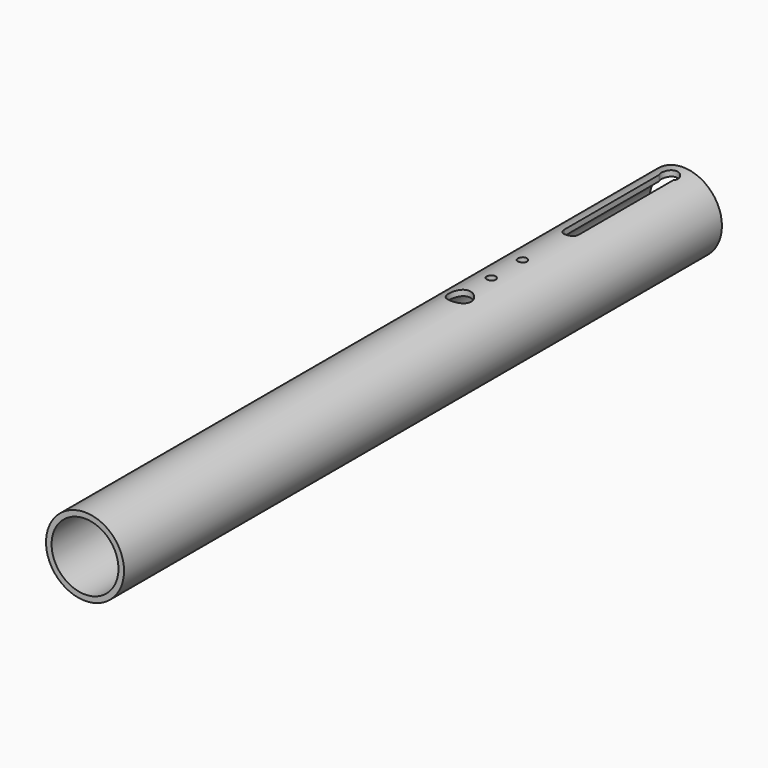
from build123d import *

# Parameters (mm, degrees)
F0_R     = 11.1125
F0_R_2   = 9.525
F1_DEPTH = 212.852
F2_R     = 2.38125
F2_R_2   = 3.175
F2_R_3   = 1.5875
F3_DEPTH = 25.4
F4_R     = 1.27
F4_R_2   = 3.175
F5_DEPTH = 25.4


with BuildPart() as f1:
    # F0 (on Front) → F1 (new body)
    with BuildSketch(Plane.XZ):
        Circle(F0_R)
        Circle(F0_R_2, mode=Mode.SUBTRACT)
    extrude(amount=F1_DEPTH)

    # F2 (on Top) → F3 (cut)
    with BuildSketch(Plane.XY):
        with Locations((0, -4.7625)):
            Circle(F2_R)
        with BuildLine():
            ThreePointArc((-2.38125, -50.8), (0, -53.18125), (2.38125, -50.8))
            Line((2.38125, -50.8), (2.38125, -31.75))
            ThreePointArc((2.38125, -31.75), (0, -29.36875), (-2.38125, -31.75))
            Line((-2.38125, -31.75), (-2.38125, -50.8))
        make_face()
        with Locations((0, -69.85)):
            Circle(F2_R_2)
        with Locations((0, -79.375)):
            Circle(F2_R_2)
        with Locations((0, -123.825)):
            Circle(F2_R_3)
    extrude(amount=-F3_DEPTH, mode=Mode.SUBTRACT)

    # F4 (on Top) → F5 (cut)
    with BuildSketch(Plane.XY):
        with BuildLine():
            ThreePointArc((2.032, -6.004002), (2.292275, -5.407346), (2.38125, -4.7625))
            ThreePointArc((2.38125, -4.7625), (-0.644846, -2.470225), (-2.032, -6.004002))
            ThreePointArc((-2.032, -6.004002), (0, -7.14375), (2.032, -6.004002))
        make_face()
        with BuildLine():
            ThreePointArc((2.032, -6.004002), (0, -7.14375), (-2.032, -6.004002))
            Line((-2.032, -6.004002), (-2.032, -39.6875))
            Line((-2.032, -39.6875), (0, -39.6875))
            Line((0, -39.6875), (2.032, -39.6875))
            Line((2.032, -39.6875), (2.032, -6.004002))
        make_face()
        with BuildLine():
            Line((0, -39.6875), (-2.032, -39.6875))
            ThreePointArc((-2.032, -39.6875), (0, -41.700798), (2.032, -39.6875))
            Line((2.032, -39.6875), (0, -39.6875))
        make_face()
        with Locations((0, -57.15)):
            Circle(F4_R)
        with Locations((0, -68.2625)):
            Circle(F4_R)
        with Locations((0, -79.375)):
            Circle(F4_R_2)
    extrude(amount=F5_DEPTH, mode=Mode.SUBTRACT)


solid = f1.part
